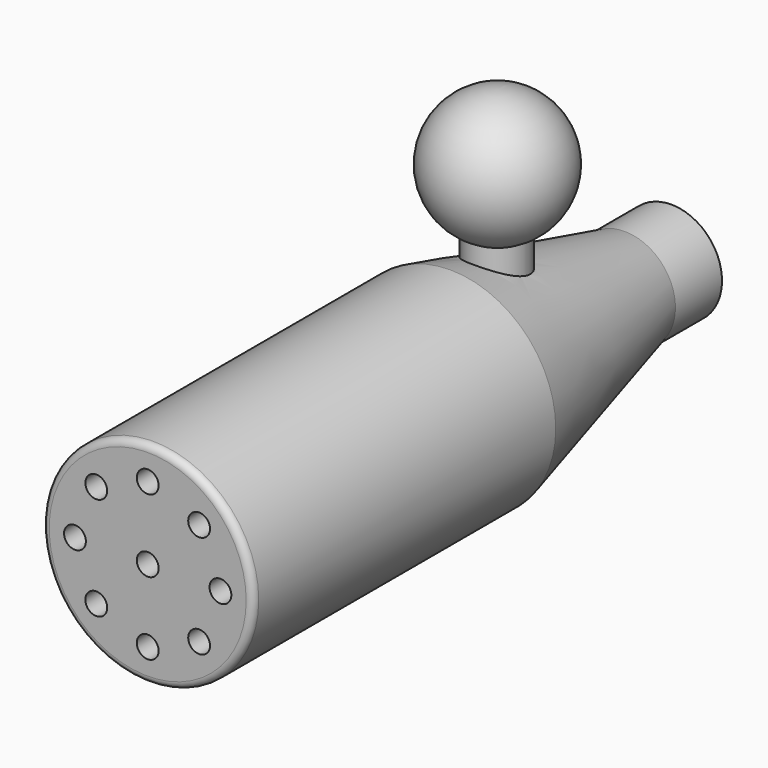
from build123d import *

# Parameters (mm, degrees)
F0_R      = 5.7546875
F1_DEPTH  = 20.6375
F2_R      = 5.7546875
F3_DEPTH  = 11.90625
F3_TAPER  = 14.1
F4_R      = 2.7640442106
F5_DEPTH  = 3.175
F6_R      = 0.5953125
F7_DEPTH  = 5.08
F8_R      = 0.381
F9_R      = 1.5875
F10_DEPTH = 9.525


with BuildPart() as f1:
    # F0 (on Front) → F1 (new body)
    with BuildSketch(Plane.XZ):
        Circle(F0_R)
    extrude(amount=F1_DEPTH)

    # F2 (on face) → F3 (join)
    with BuildSketch(Plane(origin=(0, 0, 0), x_dir=(-1, 0, 0), z_dir=(0, 1, 0))):
        Circle(F2_R)
    extrude(amount=F3_DEPTH, taper=F3_TAPER)

    # F4 (on face) → F5 (join)
    with BuildSketch(Plane(origin=(0, 11.90625, 0), x_dir=(-1, 0, 0), z_dir=(0, 1, 0))):
        Circle(F4_R)
    extrude(amount=F5_DEPTH)

    # F6 (on face) → F7 (cut)
    with BuildSketch(Plane.XZ.offset(20.6375)):
        Circle(F6_R)
        with Locations((0, 3.96875)):
            Circle(F6_R)
        with Locations((-2.8063300378, 2.8063300378)):
            Circle(F6_R)
        with Locations((-3.96875, 0)):
            Circle(F6_R)
        with Locations((-2.8063300378, -2.8063300378)):
            Circle(F6_R)
        with Locations((0, -3.96875)):
            Circle(F6_R)
        with Locations((2.8063300378, -2.8063300378)):
            Circle(F6_R)
        with Locations((3.96875, 0)):
            Circle(F6_R)
        with Locations((2.8063300378, 2.8063300378)):
            Circle(F6_R)
    extrude(amount=-F7_DEPTH, mode=Mode.SUBTRACT)

    # F8
    f8_edges = [f1.edges().sort_by_distance(p)[0] for p in [
        (-5.754687, -20.6375, 0),
    ]]
    fillet(f8_edges, radius=F8_R)

    # F9 (on Top) → F10 (join)
    with BuildSketch(Plane.XY):
        with Locations((0, 3.175)):
            Circle(F9_R)
    extrude(amount=F10_DEPTH)

    # F11 (on Right) → F12 (revolve)
    with BuildSketch(Plane.YZ):
        with BuildLine():
            Line((3.2164233271, 13.096875), (3.2164233271, 5.953125))
            ThreePointArc((3.2164233271, 5.953125), (6.7882983271, 9.525), (3.2164233271, 13.096875))
        make_face()
    revolve(axis=Axis((0, 3.2164233271, 9.525), (0, 0, 1)))


solid = f1.part
